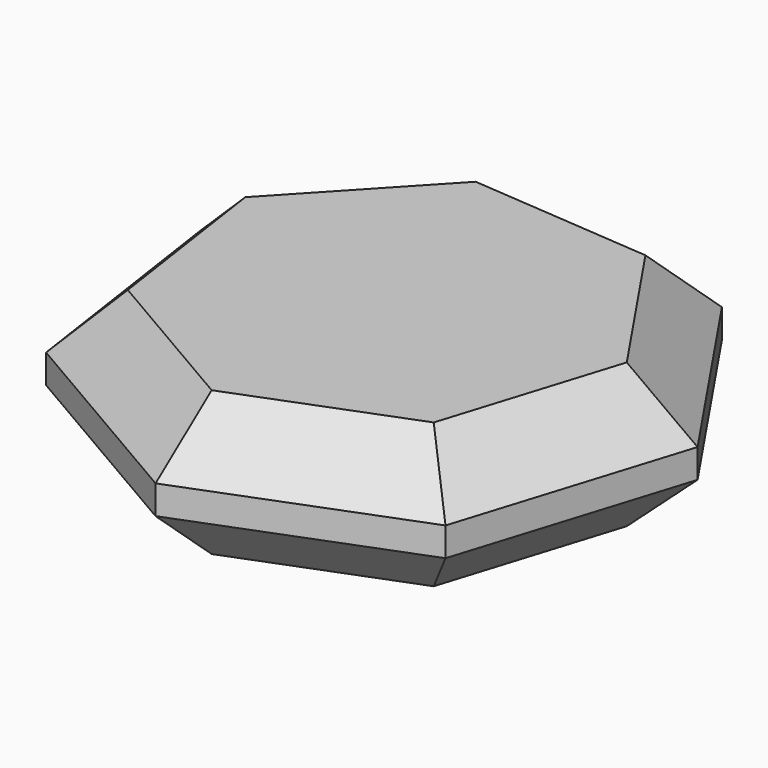
from build123d import *

# Parameters (mm, degrees)
F1_DEPTH = 25
F2_SIZE  = 10
F3_SIZE  = 10


with BuildPart() as f1:
    # F0 (on Top) → F1 (new body)
    with BuildSketch(Plane.XY):
        Polygon((-37.185604, -26.554091), (-1.63635, -47.264697), (36.720452, -32.384023), (49.001347, 6.882481), (25.958571, 40.966337), (-15.056196, 44.201705), (-43.157998, 14.152288), align=None)
    extrude(amount=F1_DEPTH)

    # F2
    f2_edges = [f1.edges().sort_by_distance(p)[0] for p in [
        (-19.410977, -36.909394, 25),
        (5.451187, 42.584021, 25),
        (-29.107097, 29.176996, 25),
        (-40.171801, -6.200901, 25),
        (17.542051, -39.82436, 25),
        (42.8609, -12.750771, 25),
        (37.479959, 23.924409, 25),
    ]]
    chamfer(f2_edges, length=F2_SIZE)

    # F3
    f3_edges = [f1.edges().sort_by_distance(p)[0] for p in [
        (-29.107097, 29.176996, 0),
        (5.451187, 42.584021, 0),
        (-40.171801, -6.200901, 0),
        (-19.410977, -36.909394, 0),
        (17.542051, -39.82436, 0),
        (42.8609, -12.750771, 0),
        (37.479959, 23.924409, 0),
    ]]
    chamfer(f3_edges, length=F3_SIZE)


solid = f1.part
